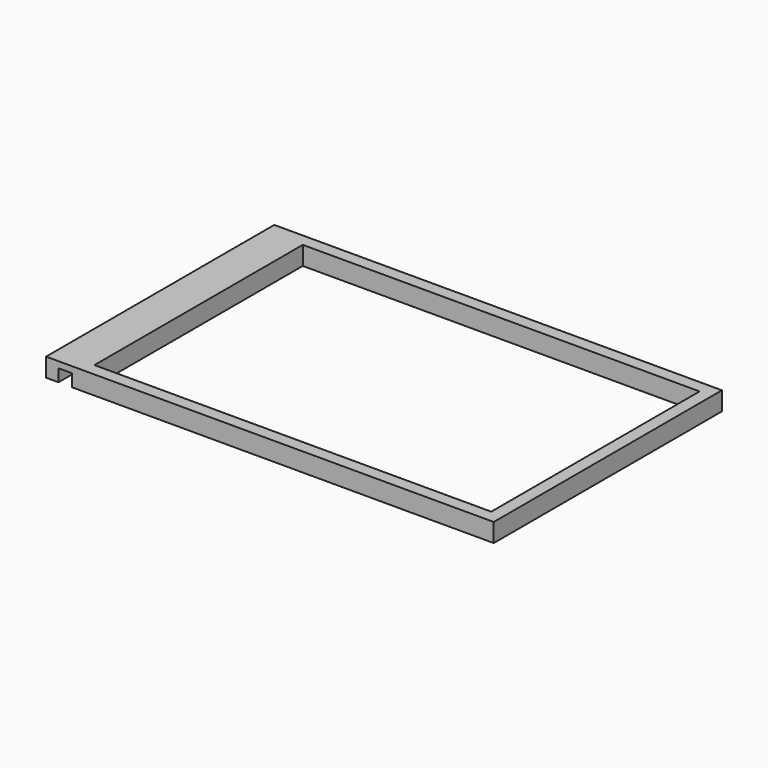
from build123d import *

# Parameters (mm, degrees)
CYLINDER047_R     = 1.3
CYLINDER047_DEPTH = 146
CYLINDER045_R     = 1.3
CYLINDER045_DEPTH = 146
CYLINDER043_R     = 1.3
CYLINDER043_DEPTH = 146
CYLINDER040_R     = 1.3
CYLINDER040_DEPTH = 146
CYLINDER039_R     = 1.3
CYLINDER039_DEPTH = 146
CYLINDER036_R     = 1.3
CYLINDER036_DEPTH = 146
CYLINDER034_R     = 1.3
CYLINDER034_DEPTH = 146
CYLINDER032_R     = 1.3
CYLINDER032_DEPTH = 146
CYLINDER030_R     = 1.3
CYLINDER030_DEPTH = 146
CYLINDER018_R     = 1.3
CYLINDER018_DEPTH = 146
CYLINDER017_R     = 1.3
CYLINDER017_DEPTH = 146
CYLINDER012_R     = 1.3
CYLINDER012_DEPTH = 146
CYLINDER011_R     = 1.3
CYLINDER011_DEPTH = 146
CYLINDER009_R     = 1.3
CYLINDER009_DEPTH = 146
CYLINDER002_R     = 1.3
CYLINDER002_DEPTH = 146
CYLINDER001_R     = 1.3
CYLINDER001_DEPTH = 146
BOX046_W          = 10
BOX046_H          = 230
BOX046_DEPTH      = 10
BOX041_W          = 10
BOX041_H          = 210
BOX041_DEPTH      = 15
BOX040_W          = 340
BOX040_H          = 10
BOX040_DEPTH      = 15
BOX024_W          = 10
BOX024_H          = 210
BOX024_DEPTH      = 15
BOX042_W          = 340
BOX042_H          = 10
BOX042_DEPTH      = 15
BOX045_W          = 21
BOX045_H          = 230
BOX045_DEPTH      = 5


with BuildPart() as cilindro047:
    # Cylinder047 → Cylinder047 (new body)
    with BuildSketch(Plane(origin=(5, 103, 8), x_dir=(1, 0, 0), z_dir=(0, 0, 1))):
        Circle(CYLINDER047_R)
    extrude(amount=CYLINDER047_DEPTH)


with BuildPart() as cilindro045:
    # Cylinder045 → Cylinder045 (new body)
    with BuildSketch(Plane(origin=(5, 127, 8), x_dir=(1, 0, 0), z_dir=(0, 0, 1))):
        Circle(CYLINDER045_R)
    extrude(amount=CYLINDER045_DEPTH)


with BuildPart() as cilindro043:
    # Cylinder043 → Cylinder043 (new body)
    with BuildSketch(Plane(origin=(5, 213, 8), x_dir=(1, 0, 0), z_dir=(0, 0, 1))):
        Circle(CYLINDER043_R)
    extrude(amount=CYLINDER043_DEPTH)


with BuildPart() as cilindro040:
    # Cylinder040 → Cylinder040 (new body)
    with BuildSketch(Plane(origin=(17, 225, 8), x_dir=(1, 0, 0), z_dir=(0, 0, 1))):
        Circle(CYLINDER040_R)
    extrude(amount=CYLINDER040_DEPTH)


with BuildPart() as cilindro039:
    # Cylinder039 → Cylinder039 (new body)
    with BuildSketch(Plane(origin=(158, 225, 8), x_dir=(1, 0, 0), z_dir=(0, 0, 1))):
        Circle(CYLINDER039_R)
    extrude(amount=CYLINDER039_DEPTH)


with BuildPart() as cilindro036:
    # Cylinder036 → Cylinder036 (new body)
    with BuildSketch(Plane(origin=(182, 225, 8), x_dir=(1, 0, 0), z_dir=(0, 0, 1))):
        Circle(CYLINDER036_R)
    extrude(amount=CYLINDER036_DEPTH)


with BuildPart() as cilindro034:
    # Cylinder034 → Cylinder034 (new body)
    with BuildSketch(Plane(origin=(323, 225, 8), x_dir=(1, 0, 0), z_dir=(0, 0, 1))):
        Circle(CYLINDER034_R)
    extrude(amount=CYLINDER034_DEPTH)


with BuildPart() as cilindro032:
    # Cylinder032 → Cylinder032 (new body)
    with BuildSketch(Plane(origin=(335, 213, 8), x_dir=(1, 0, 0), z_dir=(0, 0, 1))):
        Circle(CYLINDER032_R)
    extrude(amount=CYLINDER032_DEPTH)


with BuildPart() as cilindro030:
    # Cylinder030 → Cylinder030 (new body)
    with BuildSketch(Plane(origin=(335, 127, 8), x_dir=(1, 0, 0), z_dir=(0, 0, 1))):
        Circle(CYLINDER030_R)
    extrude(amount=CYLINDER030_DEPTH)


with BuildPart() as cilindro018:
    # Cylinder018 → Cylinder018 (new body)
    with BuildSketch(Plane(origin=(335, 103, 8), x_dir=(1, 0, 0), z_dir=(0, 0, 1))):
        Circle(CYLINDER018_R)
    extrude(amount=CYLINDER018_DEPTH)


with BuildPart() as cilindro017:
    # Cylinder017 → Cylinder017 (new body)
    with BuildSketch(Plane(origin=(335, 17, 8), x_dir=(1, 0, 0), z_dir=(0, 0, 1))):
        Circle(CYLINDER017_R)
    extrude(amount=CYLINDER017_DEPTH)


with BuildPart() as cilindro012:
    # Cylinder012 → Cylinder012 (new body)
    with BuildSketch(Plane(origin=(323, 5, 8), x_dir=(1, 0, 0), z_dir=(0, 0, 1))):
        Circle(CYLINDER012_R)
    extrude(amount=CYLINDER012_DEPTH)


with BuildPart() as cilindro011:
    # Cylinder011 → Cylinder011 (new body)
    with BuildSketch(Plane(origin=(182, 5, 8), x_dir=(1, 0, 0), z_dir=(0, 0, 1))):
        Circle(CYLINDER011_R)
    extrude(amount=CYLINDER011_DEPTH)


with BuildPart() as cilindro009:
    # Cylinder009 → Cylinder009 (new body)
    with BuildSketch(Plane(origin=(158, 5, 8), x_dir=(1, 0, 0), z_dir=(0, 0, 1))):
        Circle(CYLINDER009_R)
    extrude(amount=CYLINDER009_DEPTH)


with BuildPart() as cilindro002:
    # Cylinder002 → Cylinder002 (new body)
    with BuildSketch(Plane(origin=(5, 17, 8), x_dir=(1, 0, 0), z_dir=(0, 0, 1))):
        Circle(CYLINDER002_R)
    extrude(amount=CYLINDER002_DEPTH)


with BuildPart() as cilindro001:
    # Cylinder001 → Cylinder001 (new body)
    with BuildSketch(Plane(origin=(17, 5, 8), x_dir=(1, 0, 0), z_dir=(0, 0, 1))):
        Circle(CYLINDER001_R)
    extrude(amount=CYLINDER001_DEPTH)


with BuildPart() as cubo009:
    # Box046 → Box046 (new body)
    with BuildSketch(Plane(origin=(-21, 249, 0), x_dir=(1, 0, 0), z_dir=(0, 0, 1))):
        with Locations((5, 115)):
            Rectangle(BOX046_W, BOX046_H)
    extrude(amount=BOX046_DEPTH)


with BuildPart() as cubo004:
    # Box041 → Box041 (new body)
    with BuildSketch(Plane(origin=(330, 259, 0), x_dir=(1, 0, 0), z_dir=(0, 0, 1))):
        with Locations((5, 105)):
            Rectangle(BOX041_W, BOX041_H)
    extrude(amount=BOX041_DEPTH)


with BuildPart() as cubo003:
    # Box040 → Box040 (new body)
    with BuildSketch(Plane(origin=(0, 249, 0), x_dir=(1, 0, 0), z_dir=(0, 0, 1))):
        with Locations((170, 5)):
            Rectangle(BOX040_W, BOX040_H)
    extrude(amount=BOX040_DEPTH)


with BuildPart() as cubo002:
    # Box024 → Box024 (new body)
    with BuildSketch(Plane(origin=(0, 259, 0), x_dir=(1, 0, 0), z_dir=(0, 0, 1))):
        with Locations((5, 105)):
            Rectangle(BOX024_W, BOX024_H)
    extrude(amount=BOX024_DEPTH)


with BuildPart() as obj1:
    # Box042 → Box042 (new body)
    with BuildSketch(Plane(origin=(0, 469, 0), x_dir=(1, 0, 0), z_dir=(0, 0, 1))):
        with Locations((170, 5)):
            Rectangle(BOX042_W, BOX042_H)
    extrude(amount=BOX042_DEPTH)

    # Fusion004: union Cubo004, Cubo003, Cubo002
    add(cubo004.part)
    add(cubo003.part)
    add(cubo002.part)


with BuildPart() as cut062:
    # Box045 → Box045 (new body)
    with BuildSketch(Plane(origin=(-21, 249, 10), x_dir=(1, 0, 0), z_dir=(0, 0, 1))):
        with Locations((10.5, 115)):
            Rectangle(BOX045_W, BOX045_H)
    extrude(amount=BOX045_DEPTH)

    # Fusion005: union Cubo009, obj1
    add(cubo009.part)
    add(obj1.part)


with BuildPart() as cut062_1:
    # Fusion005 placement: moved
    add(cut062.part.moved(Location((0, -249, 147))))

    # Cut016: cut Cilindro001
    add(cilindro001.part, mode=Mode.SUBTRACT)

    # Cut017: cut Cilindro002
    add(cilindro002.part, mode=Mode.SUBTRACT)

    # Cut023: cut Cilindro009
    add(cilindro009.part, mode=Mode.SUBTRACT)

    # Cut026: cut Cilindro011
    add(cilindro011.part, mode=Mode.SUBTRACT)

    # Cut029: cut Cilindro012
    add(cilindro012.part, mode=Mode.SUBTRACT)

    # Cut032: cut Cilindro017
    add(cilindro017.part, mode=Mode.SUBTRACT)

    # Cut043: cut Cilindro018
    add(cilindro018.part, mode=Mode.SUBTRACT)

    # Cut045: cut Cilindro030
    add(cilindro030.part, mode=Mode.SUBTRACT)

    # Cut047: cut Cilindro032
    add(cilindro032.part, mode=Mode.SUBTRACT)

    # Cut049: cut Cilindro034
    add(cilindro034.part, mode=Mode.SUBTRACT)

    # Cut051: cut Cilindro036
    add(cilindro036.part, mode=Mode.SUBTRACT)

    # Cut054: cut Cilindro039
    add(cilindro039.part, mode=Mode.SUBTRACT)

    # Cut055: cut Cilindro040
    add(cilindro040.part, mode=Mode.SUBTRACT)

    # Cut058: cut Cilindro043
    add(cilindro043.part, mode=Mode.SUBTRACT)

    # Cut060: cut Cilindro045
    add(cilindro045.part, mode=Mode.SUBTRACT)

    # Cut062: cut Cilindro047
    add(cilindro047.part, mode=Mode.SUBTRACT)


solid = cut062_1.part
